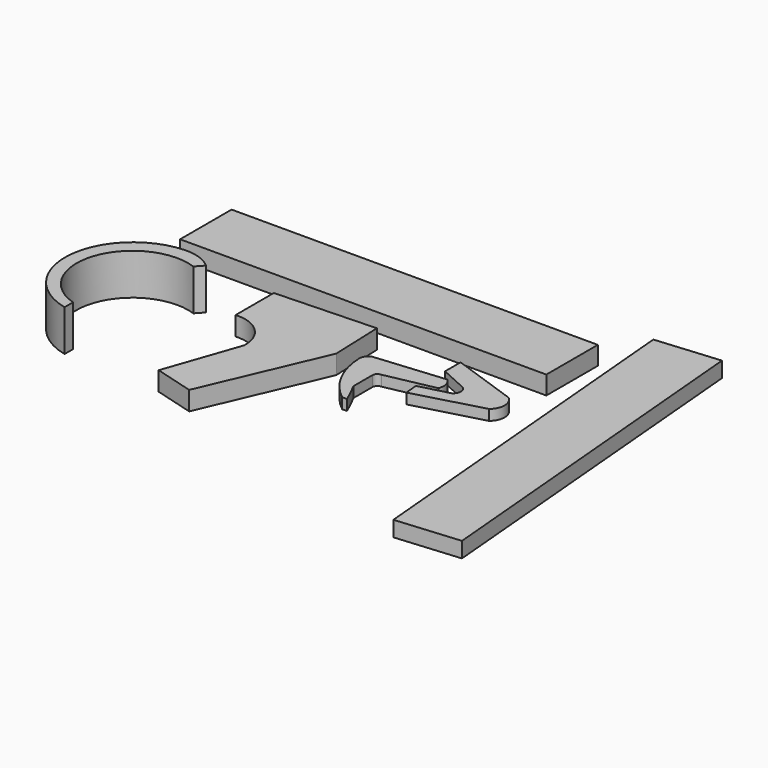
from build123d import *

# Parameters (mm, degrees)
F1_DEPTH = 26.924
F0_W     = 937.4059736729
F0_H     = 164.7293567657
F2_DEPTH = 21.59
F3_DEPTH = 12.7
F4_DEPTH = 20.32
F5_DEPTH = 78.74


with BuildPart() as f1:
    # F0 (on Top) → F1 (new body)
    with BuildSketch(Plane.XY):
        with BuildLine():
            ThreePointArc((-170.315220952, 25.7127769291), (-179.9832211949, 16.9400629821), (-184.1306090355, 4.5614559203))
            ThreePointArc((-184.1306090355, 4.5614559203), (-161.8590345594, -80.9308940519), (-105.3771823645, -148.8629579544))
            Line((-105.3771823645, -148.8629579544), (-93.3883413672, -148.8629579544))
            ThreePointArc((-93.3883413672, -148.8629579544), (-105.1126589408, -122.8680418317), (-118.1744709611, -97.5187942386))
            Line((-118.1744709611, -97.5187942386), (-118.1744709611, -36.4463701844))
            ThreePointArc((-118.1744709611, -36.4463701844), (-114.3945714706, -27.3128967764), (-105.2657812834, -23.521700874))
            Line((-105.2657812834, -23.521700874), (19.8781080544, 1.9170666346))
            ThreePointArc((19.8781080544, 1.9170666346), (21.6939024895, 23.7715948588), (10.3239035234, 42.5236783922))
            Line((10.3239035234, 42.5236783922), (-170.315220952, 25.7127769291))
        make_face()
    extrude(amount=F1_DEPTH)


with BuildPart() as f1b:
    # F0 (on Top) → F1, piece 2 (new body)
    with BuildSketch(Plane.XY):
        with BuildLine():
            Line((54.6909198165, 1.4387500705), (-21.3884562254, -18.3101519942))
            Line((-21.3884562254, -18.3101519942), (-18.2305593044, -52.6044256985))
            Line((-18.2305593044, -52.6044256985), (155.2591323853, -5.0221821293))
            ThreePointArc((155.2591323853, -5.0221821293), (170.0823851438, 26.3860397972), (155.2591323853, 57.7942617238))
            Line((155.2591323853, 57.7942617238), (-15.3201334178, 117.1635612845))
            Line((-15.3201334178, 117.1635612845), (-15.3201334178, 67.4326047301))
            Line((-15.3201334178, 67.4326047301), (54.6909198165, 35.7340909541))
            ThreePointArc((54.6909198165, 35.7340909541), (64.3015376423, 18.5864205123), (54.6909198165, 1.4387500705))
        make_face()
    extrude(amount=F1_DEPTH)


with BuildPart() as f1c:
    # F0 (on Top) → F1, piece 3 (new body)
    with BuildSketch(Plane.XY):
        with BuildLine():
            Line((-212.0754271746, 95.4043865204), (-468.4157967567, 85.9202593565))
            Line((-468.4157967567, 85.9202593565), (-468.4157967567, -36.4463701844))
            ThreePointArc((-468.4157967567, -36.4463701844), (-400.203203644, -60.7919331571), (-373.0413913727, -127.932831645))
            Line((-373.0413913727, -127.932831645), (-439.2448961735, -318.9170658588))
            Line((-439.2448961735, -318.9170658588), (-338.4751677513, -347.3312854767))
            Line((-338.4751677513, -347.3312854767), (-207.0312013677, -40.9327465904))
            Line((-207.0312013677, -40.9327465904), (-212.0754271746, 95.4043865204))
        make_face()
    extrude(amount=F1_DEPTH)

    # F2 (add): a face of the model
    f2_faces = [f1c.faces().sort_by_distance(p)[0] for p in [
        (-334.4542922545, -81.4370154197, 26.924),
    ]]
    extrude(f2_faces, amount=F2_DEPTH)


with BuildPart() as f1d:
    # F0 (on Top) → F1, piece 4 (new body)
    with BuildSketch(Plane.XY):
        with Locations((-292.677924037, 234.7231805325)):
            Rectangle(F0_W, F0_H)
    extrude(amount=F1_DEPTH)

    # F4 (add): a face of the model
    f4_faces = [f1d.faces().sort_by_distance(p)[0] for p in [
        (-292.677924037, 234.7231805325, 26.924),
    ]]
    extrude(f4_faces, amount=F4_DEPTH)


with BuildPart() as f1e:
    # F0 (on Top) → F1, piece 5 (new body)
    with BuildSketch(Plane.XY):
        Polygon((239.0791658335, 415.8523497636), (320.779479725, -517.9865111688), (484.8819915551, -503.6294017275), (403.1816776636, 430.2094592049), align=None)
    extrude(amount=F1_DEPTH)

    # F3 (add): a face of the model
    f3_faces = [f1e.faces().sort_by_distance(p)[0] for p in [
        (361.9805786943, -43.888525982, 26.924),
    ]]
    extrude(f3_faces, amount=F3_DEPTH)


with BuildPart() as f1f:
    # F0 (on Top) → F1, piece 6 (new body)
    with BuildSketch(Plane.XY):
        with BuildLine():
            ThreePointArc((-579.7931551933, 8.2416180521), (-614.6184627779, 28.5222402742), (-654.5188426971, 34.1848693788))
            ThreePointArc((-654.5188426971, 34.1848693788), (-821.2371231837, -122.8817826196), (-687.970161438, -309.1741204262))
            Line((-687.970161438, -309.1741204262), (-687.970161438, -281.9933593273))
            ThreePointArc((-687.970161438, -281.9933593273), (-780.8353859156, -99.9452267127), (-596.9918370247, -10.6870504096))
            Line((-596.9918370247, -10.6870504096), (-579.7931551933, 8.2416180521))
        make_face()
    extrude(amount=F1_DEPTH)

    # F5 (add): a face of the model
    f5_faces = [f1f.faces().sort_by_distance(p)[0] for p in [
        (-615.9970762529, 24.5513486374, 26.924),
    ]]
    extrude(f5_faces, amount=F5_DEPTH)


solid = Compound([f1.part, f1b.part, f1c.part, f1d.part, f1e.part, f1f.part])
